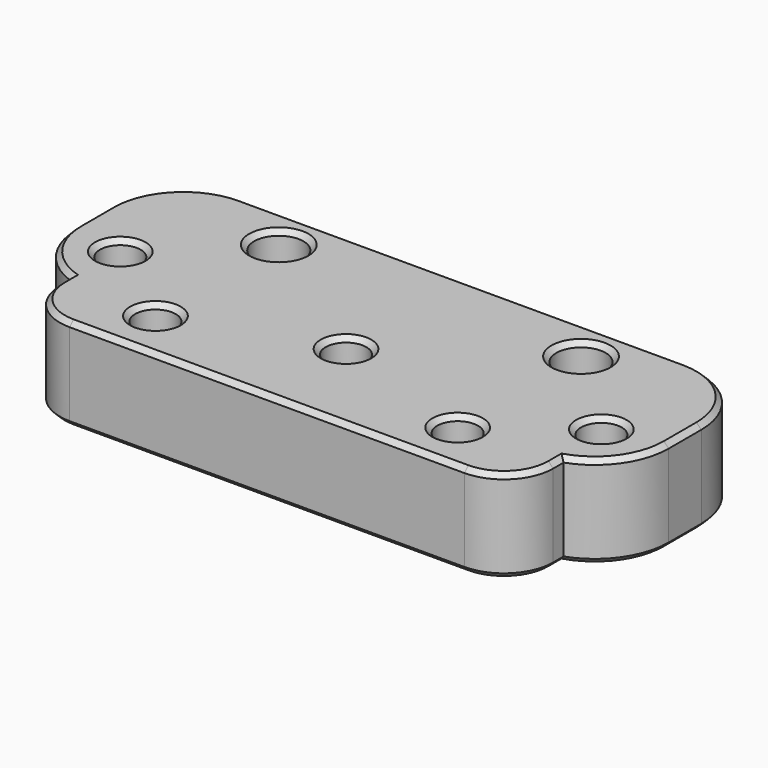
from build123d import *

# Parameters (mm, degrees)
SKETCH016_W     = 48
SKETCH016_H     = 15.3
PAD008_DEPTH    = 7.5
FILLET006_R     = 6
SKETCH017_W     = 40
SKETCH017_H     = 20
PAD009_DEPTH    = 7.5
FILLET007_R     = 4
FILLET008_R     = 6
SKETCH018_R     = 1.65
SKETCH018_R_2   = 2
POCKET012_DEPTH = 7.501
SKETCH021_R     = 2
POCKET015_DEPTH = 5
CHAMFER012_SIZE = 0.4


with BuildPart() as part:
    # Sketch016 → Pad008 (new body)
    with BuildSketch(Plane.XY):
        with Locations((0, -7.65)):
            Rectangle(SKETCH016_W, SKETCH016_H)
    extrude(amount=PAD008_DEPTH)

    # Fillet006
    fillet006_edges = [part.edges().sort_by_distance(p)[0] for p in [
        (-24, -15.3, 3.75),
        (24, -15.3, 3.75),
    ]]
    fillet(fillet006_edges, radius=FILLET006_R)

    # Sketch017 (on Face5 of Fillet006) → Pad009 (join)
    with BuildSketch(Plane.XY.offset(7.5)):
        with Locations((0, -10)):
            Rectangle(SKETCH017_W, SKETCH017_H)
    extrude(amount=-PAD009_DEPTH)

    # Fillet007
    fillet007_edges = [part.edges().sort_by_distance(p)[0] for p in [
        (-20, -20, 3.75),
        (20, -20, 3.75),
    ]]
    fillet(fillet007_edges, radius=FILLET007_R)

    # Fillet008
    fillet008_edges = [part.edges().sort_by_distance(p)[0] for p in [
        (-24, 0, 3.75),
        (24, 0, 3.75),
    ]]
    fillet(fillet008_edges, radius=FILLET008_R)

    # Sketch018 (on Face5 of Fillet008) → Pocket012 (cut, through all)
    with BuildSketch(Plane.XY.offset(7.5)):
        with Locations((-12.25, -16)):
            Circle(SKETCH018_R)
        with Locations((12.25, -16)):
            Circle(SKETCH018_R)
        with Locations((12.25, -3.5)):
            Circle(SKETCH018_R_2)
        with Locations((-12.25, -3.5)):
            Circle(SKETCH018_R_2)
        with Locations((-19.5, -10.5)):
            Circle(SKETCH018_R)
        with Locations((19.5, -10.5)):
            Circle(SKETCH018_R)
        with Locations((0, -12)):
            Circle(SKETCH018_R)
    extrude(amount=-POCKET012_DEPTH, mode=Mode.SUBTRACT)

    # Sketch021 (on Face2 of Pocket012) → Pocket015 (cut)
    with BuildSketch(Plane(origin=(0, 0, 0), x_dir=(1, 0, 0), z_dir=(0, 0, -1))):
        with Locations((0, 12)):
            Circle(SKETCH021_R)
    extrude(amount=-POCKET015_DEPTH, mode=Mode.SUBTRACT)

    # Chamfer012
    chamfer012_edges = [part.edges().sort_by_distance(p)[0] for p in [
        (-24, -7.65, 0),
        (-22.242641, -1.757359, 0),
        (-22.898979, -12.764102, 0),
        (0, 0, 0),
        (-20, -15.478427, 0),
        (22.242641, -1.757359, 0),
        (-18.828427, -18.828427, 0),
        (24, -7.65, 0),
        (0, -20, 0),
        (22.898979, -12.764102, 0),
        (18.828427, -18.828427, 0),
        (20, -15.478427, 0),
        (10.6, -16, 0),
        (17.85, -10.5, 0),
        (-13.9, -16, 0),
        (-2, -12, 0),
        (-21.15, -10.5, 0),
        (10.25, -3.5, 0),
        (-14.25, -3.5, 0),
        (24, -7.65, 7.5),
        (22.242641, -1.757359, 7.5),
        (22.898979, -12.764102, 7.5),
        (0, 0, 7.5),
        (20, -15.478427, 7.5),
        (-22.242641, -1.757359, 7.5),
        (18.828427, -18.828427, 7.5),
        (-24, -7.65, 7.5),
        (0, -20, 7.5),
        (-22.898979, -12.764102, 7.5),
        (-18.828427, -18.828427, 7.5),
        (-20, -15.478427, 7.5),
        (-13.9, -16, 7.5),
        (-21.15, -10.5, 7.5),
        (10.6, -16, 7.5),
        (-1.65, -12, 7.5),
        (17.85, -10.5, 7.5),
        (-14.25, -3.5, 7.5),
        (10.25, -3.5, 7.5),
    ]]
    chamfer(chamfer012_edges, length=CHAMFER012_SIZE)


with BuildPart() as part_1:
    # Body010 placement: moved
    add(part.part.moved(Location((0, -17.5, 5))))


solid = part_1.part
